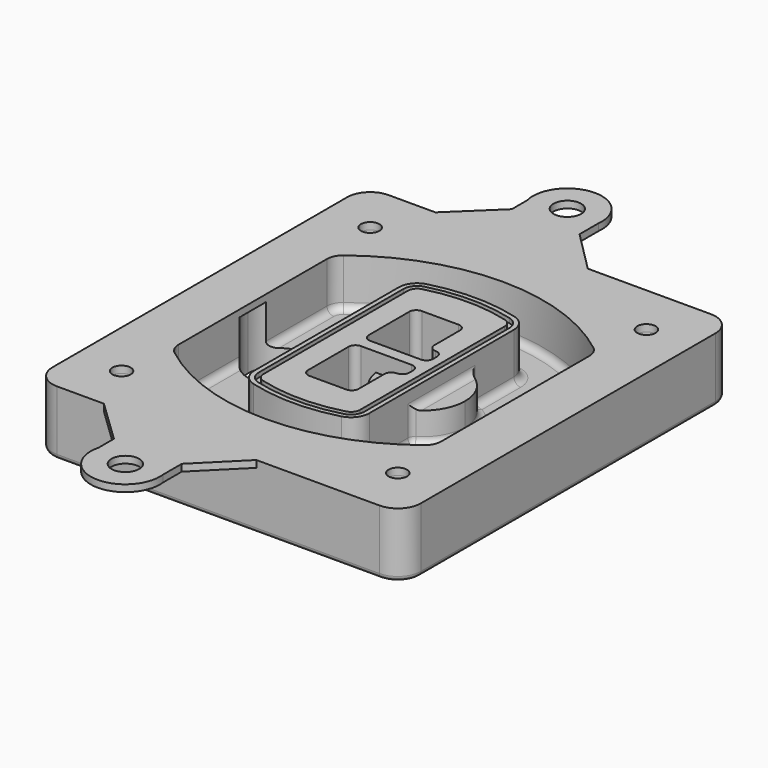
from build123d import *

# Parameters (mm, degrees)
F0_R      = 4
F1_DEPTH  = 25
F2_DEPTH  = 3
F3_DEPTH  = 18
F5_DEPTH  = 21
F6_DEPTH  = 2
F8_DEPTH  = 20
F9_DEPTH  = 16
F10_DEPTH = 25
F7_R      = 6
F7_R_2    = 4
F11_DEPTH = 6
F13_DEPTH = 9
F14_R     = 3
F15_R     = 2
F16_R     = 6
F16_R_2   = 4
F17_DEPTH = 3


with BuildPart() as f1:
    # F0 (on Top) → F1 (new body)
    with BuildSketch(Plane.XY):
        with BuildLine():
            ThreePointArc((14.05, 38.3825811321), (16.9789321881, 31.3115133202), (24.05, 28.3825811321))
            Line((24.05, 28.3825811321), (164.05, 28.3825811321))
            ThreePointArc((164.05, 28.3825811321), (171.1210678119, 31.3115133202), (174.05, 38.3825811321))
            Line((174.05, 38.3825811321), (174.05, 198.3825811321))
            ThreePointArc((174.05, 198.3825811321), (171.1210678119, 205.4536489439), (164.05, 208.3825811321))
            Line((164.05, 208.3825811321), (24.05, 208.3825811321))
            ThreePointArc((24.05, 208.3825811321), (16.9789321881, 205.4536489439), (14.05, 198.3825811321))
            Line((14.05, 198.3825811321), (14.05, 38.3825811321))
        make_face()
        with Locations((34.05, 50.8825811321)):
            Circle(F0_R, mode=Mode.SUBTRACT)
        with Locations((154.05, 50.8825811321)):
            Circle(F0_R, mode=Mode.SUBTRACT)
        with BuildLine():
            ThreePointArc((30.05, 158.6760234193), (31.4679615202, 164.8154295545), (35.4346153846, 169.7112011673))
            ThreePointArc((35.4346153846, 169.7112011673), (94.05, 189.8825811321), (152.6653846154, 169.7112011673))
            ThreePointArc((152.6653846154, 169.7112011673), (156.6320384798, 164.8154295545), (158.05, 158.6760234193))
            Line((158.05, 158.6760234193), (158.05, 78.0891388448))
            ThreePointArc((158.05, 78.0891388448), (156.6320384798, 71.9497327097), (152.6653846154, 67.0539610969))
            ThreePointArc((152.6653846154, 67.0539610969), (94.05, 46.8825811321), (35.4346153846, 67.0539610969))
            ThreePointArc((35.4346153846, 67.0539610969), (31.4679615202, 71.9497327097), (30.05, 78.0891388448))
            Line((30.05, 78.0891388448), (30.05, 158.6760234193))
        make_face(mode=Mode.SUBTRACT)
        with Locations((34.05, 185.8825811321)):
            Circle(F0_R, mode=Mode.SUBTRACT)
        with Locations((154.05, 185.8825811321)):
            Circle(F0_R, mode=Mode.SUBTRACT)
        with BuildLine():
            ThreePointArc((152.6653846154, 169.7112011673), (94.05, 189.8825811321), (35.4346153846, 169.7112011673))
            ThreePointArc((35.4346153846, 169.7112011673), (31.4679615202, 164.8154295545), (30.05, 158.6760234193))
            Line((30.05, 158.6760234193), (30.05, 78.0891388448))
            ThreePointArc((30.05, 78.0891388448), (31.4679615202, 71.9497327097), (35.4346153846, 67.0539610969))
            ThreePointArc((35.4346153846, 67.0539610969), (94.05, 46.8825811321), (152.6653846154, 67.0539610969))
            ThreePointArc((152.6653846154, 67.0539610969), (156.6320384798, 71.9497327097), (158.05, 78.0891388448))
            Line((158.05, 78.0891388448), (158.05, 158.6760234193))
            ThreePointArc((158.05, 158.6760234193), (156.6320384798, 164.8154295545), (152.6653846154, 169.7112011673))
        make_face()
        with BuildLine():
            Line((34.05, 78.0891388448), (34.05, 158.6760234193))
            ThreePointArc((34.05, 158.6760234193), (35.0628296573, 163.0613135158), (37.8961538462, 166.5582932393))
            ThreePointArc((37.8961538462, 166.5582932393), (94.05, 185.8825811321), (150.2038461538, 166.5582932393))
            ThreePointArc((150.2038461538, 166.5582932393), (153.0371703427, 163.0613135158), (154.05, 158.6760234193))
            Line((154.05, 158.6760234193), (154.05, 78.0891388448))
            ThreePointArc((154.05, 78.0891388448), (153.0371703427, 73.7038487483), (150.2038461538, 70.2068690248))
            ThreePointArc((150.2038461538, 70.2068690248), (94.05, 50.8825811321), (37.8961538462, 70.2068690248))
            ThreePointArc((37.8961538462, 70.2068690248), (35.0628296573, 73.7038487483), (34.05, 78.0891388448))
        make_face(mode=Mode.SUBTRACT)
        with BuildLine():
            ThreePointArc((37.8961538462, 166.5582932393), (35.0628296573, 163.0613135158), (34.05, 158.6760234193))
            Line((34.05, 158.6760234193), (34.05, 78.0891388448))
            ThreePointArc((34.05, 78.0891388448), (35.0628296573, 73.7038487483), (37.8961538462, 70.2068690248))
            ThreePointArc((37.8961538462, 70.2068690248), (94.05, 50.8825811321), (150.2038461538, 70.2068690248))
            ThreePointArc((150.2038461538, 70.2068690248), (153.0371703427, 73.7038487483), (154.05, 78.0891388448))
            Line((154.05, 78.0891388448), (154.05, 158.6760234193))
            ThreePointArc((154.05, 158.6760234193), (153.0371703427, 163.0613135158), (150.2038461538, 166.5582932393))
            ThreePointArc((150.2038461538, 166.5582932393), (94.05, 185.8825811321), (37.8961538462, 166.5582932393))
        make_face()
        with BuildLine():
            ThreePointArc((148.3576923077, 164.1936122933), (150.3410192399, 161.7457264869), (151.05, 158.6760234193))
            Line((151.05, 158.6760234193), (151.05, 78.0891388448))
            ThreePointArc((151.05, 78.0891388448), (150.3410192399, 75.0194357772), (148.3576923077, 72.5715499708))
            ThreePointArc((148.3576923077, 72.5715499708), (94.05, 53.8825811321), (39.7423076923, 72.5715499708))
            ThreePointArc((39.7423076923, 72.5715499708), (37.7589807601, 75.0194357772), (37.05, 78.0891388448))
            Line((37.05, 78.0891388448), (37.05, 158.6760234193))
            ThreePointArc((37.05, 158.6760234193), (37.7589807601, 161.7457264869), (39.7423076923, 164.1936122933))
            ThreePointArc((39.7423076923, 164.1936122933), (94.05, 182.8825811321), (148.3576923077, 164.1936122933))
        make_face(mode=Mode.SUBTRACT)
        with BuildLine():
            Line((151.05, 78.0891388448), (151.05, 158.6760234193))
            ThreePointArc((151.05, 158.6760234193), (150.3410192399, 161.7457264869), (148.3576923077, 164.1936122933))
            ThreePointArc((148.3576923077, 164.1936122933), (94.05, 182.8825811321), (39.7423076923, 164.1936122933))
            ThreePointArc((39.7423076923, 164.1936122933), (37.7589807601, 161.7457264869), (37.05, 158.6760234193))
            Line((37.05, 158.6760234193), (37.05, 78.0891388448))
            ThreePointArc((37.05, 78.0891388448), (37.7589807601, 75.0194357772), (39.7423076923, 72.5715499708))
            ThreePointArc((39.7423076923, 72.5715499708), (94.05, 53.8825811321), (148.3576923077, 72.5715499708))
            ThreePointArc((148.3576923077, 72.5715499708), (150.3410192399, 75.0194357772), (151.05, 78.0891388448))
        make_face()
    extrude(amount=-F1_DEPTH)

    # F0 (on Top) → F2 (join)
    with BuildSketch(Plane.XY):
        with BuildLine():
            ThreePointArc((37.8961538462, 166.5582932393), (35.0628296573, 163.0613135158), (34.05, 158.6760234193))
            Line((34.05, 158.6760234193), (34.05, 78.0891388448))
            ThreePointArc((34.05, 78.0891388448), (35.0628296573, 73.7038487483), (37.8961538462, 70.2068690248))
            ThreePointArc((37.8961538462, 70.2068690248), (94.05, 50.8825811321), (150.2038461538, 70.2068690248))
            ThreePointArc((150.2038461538, 70.2068690248), (153.0371703427, 73.7038487483), (154.05, 78.0891388448))
            Line((154.05, 78.0891388448), (154.05, 158.6760234193))
            ThreePointArc((154.05, 158.6760234193), (153.0371703427, 163.0613135158), (150.2038461538, 166.5582932393))
            ThreePointArc((150.2038461538, 166.5582932393), (94.05, 185.8825811321), (37.8961538462, 166.5582932393))
        make_face()
        with BuildLine():
            ThreePointArc((148.3576923077, 164.1936122933), (150.3410192399, 161.7457264869), (151.05, 158.6760234193))
            Line((151.05, 158.6760234193), (151.05, 78.0891388448))
            ThreePointArc((151.05, 78.0891388448), (150.3410192399, 75.0194357772), (148.3576923077, 72.5715499708))
            ThreePointArc((148.3576923077, 72.5715499708), (94.05, 53.8825811321), (39.7423076923, 72.5715499708))
            ThreePointArc((39.7423076923, 72.5715499708), (37.7589807601, 75.0194357772), (37.05, 78.0891388448))
            Line((37.05, 78.0891388448), (37.05, 158.6760234193))
            ThreePointArc((37.05, 158.6760234193), (37.7589807601, 161.7457264869), (39.7423076923, 164.1936122933))
            ThreePointArc((39.7423076923, 164.1936122933), (94.05, 182.8825811321), (148.3576923077, 164.1936122933))
        make_face(mode=Mode.SUBTRACT)
    extrude(amount=F2_DEPTH)

    # F0 (on Top) → F3 (cut)
    with BuildSketch(Plane.XY):
        with BuildLine():
            Line((151.05, 78.0891388448), (151.05, 158.6760234193))
            ThreePointArc((151.05, 158.6760234193), (150.3410192399, 161.7457264869), (148.3576923077, 164.1936122933))
            ThreePointArc((148.3576923077, 164.1936122933), (94.05, 182.8825811321), (39.7423076923, 164.1936122933))
            ThreePointArc((39.7423076923, 164.1936122933), (37.7589807601, 161.7457264869), (37.05, 158.6760234193))
            Line((37.05, 158.6760234193), (37.05, 78.0891388448))
            ThreePointArc((37.05, 78.0891388448), (37.7589807601, 75.0194357772), (39.7423076923, 72.5715499708))
            ThreePointArc((39.7423076923, 72.5715499708), (94.05, 53.8825811321), (148.3576923077, 72.5715499708))
            ThreePointArc((148.3576923077, 72.5715499708), (150.3410192399, 75.0194357772), (151.05, 78.0891388448))
        make_face()
    extrude(amount=-F3_DEPTH, mode=Mode.SUBTRACT)

    # F4 (on face) → F5 (join, through all)
    with BuildSketch(Plane.XY.offset(3)):
        with BuildLine():
            ThreePointArc((69.05, 79.13605345), (70.6988454002, 74.2716074128), (74.9657088123, 71.4123412437))
            ThreePointArc((74.9657088123, 71.4123412437), (94.05, 68.8825811321), (113.1342911877, 71.4123412437))
            ThreePointArc((113.1342911877, 71.4123412437), (117.4011545998, 74.2716074128), (119.05, 79.13605345))
            Line((119.05, 79.13605345), (119.05, 157.6291088141))
            ThreePointArc((119.05, 157.6291088141), (117.4011545998, 162.4935548514), (113.1342911877, 165.3528210204))
            ThreePointArc((113.1342911877, 165.3528210204), (94.05, 167.8825811321), (74.9657088123, 165.3528210204))
            ThreePointArc((74.9657088123, 165.3528210204), (70.6988454002, 162.4935548514), (69.05, 157.6291088141))
            Line((69.05, 157.6291088141), (69.05, 79.13605345))
        make_face()
        with BuildLine():
            ThreePointArc((112.6132183908, 163.4218929688), (115.8133659499, 161.2774433421), (117.05, 157.6291088141))
            Line((117.05, 157.6291088141), (117.05, 79.13605345))
            ThreePointArc((117.05, 79.13605345), (115.8133659499, 75.4877189221), (112.6132183908, 73.3432692953))
            ThreePointArc((112.6132183908, 73.3432692953), (94.05, 70.8825811321), (75.4867816092, 73.3432692953))
            ThreePointArc((75.4867816092, 73.3432692953), (72.2866340501, 75.4877189221), (71.05, 79.13605345))
            Line((71.05, 79.13605345), (71.05, 157.6291088141))
            ThreePointArc((71.05, 157.6291088141), (72.2866340501, 161.2774433421), (75.4867816092, 163.4218929688))
            ThreePointArc((75.4867816092, 163.4218929688), (94.05, 165.8825811321), (112.6132183908, 163.4218929688))
        make_face(mode=Mode.SUBTRACT)
        with BuildLine():
            Line((117.05, 79.13605345), (117.05, 157.6291088141))
            ThreePointArc((117.05, 157.6291088141), (115.8133659499, 161.2774433421), (112.6132183908, 163.4218929688))
            ThreePointArc((112.6132183908, 163.4218929688), (94.05, 165.8825811321), (75.4867816092, 163.4218929688))
            ThreePointArc((75.4867816092, 163.4218929688), (72.2866340501, 161.2774433421), (71.05, 157.6291088141))
            Line((71.05, 157.6291088141), (71.05, 79.13605345))
            ThreePointArc((71.05, 79.13605345), (72.2866340501, 75.4877189221), (75.4867816092, 73.3432692953))
            ThreePointArc((75.4867816092, 73.3432692953), (94.05, 70.8825811321), (112.6132183908, 73.3432692953))
            ThreePointArc((112.6132183908, 73.3432692953), (115.8133659499, 75.4877189221), (117.05, 79.13605345))
        make_face()
        with BuildLine():
            ThreePointArc((112.0921455939, 161.4909649173), (114.2255772999, 160.0613318328), (115.05, 157.6291088141))
            Line((115.05, 157.6291088141), (115.05, 79.13605345))
            ThreePointArc((115.05, 79.13605345), (114.2255772999, 76.7038304314), (112.0921455939, 75.2741973469))
            ThreePointArc((112.0921455939, 75.2741973469), (94.05, 72.8825811321), (76.0078544061, 75.2741973469))
            ThreePointArc((76.0078544061, 75.2741973469), (73.8744227001, 76.7038304314), (73.05, 79.13605345))
            Line((73.05, 79.13605345), (73.05, 157.6291088141))
            ThreePointArc((73.05, 157.6291088141), (73.8744227001, 160.0613318328), (76.0078544061, 161.4909649173))
            ThreePointArc((76.0078544061, 161.4909649173), (94.05, 163.8825811321), (112.0921455939, 161.4909649173))
        make_face(mode=Mode.SUBTRACT)
        with BuildLine():
            Line((115.05, 79.13605345), (115.05, 157.6291088141))
            ThreePointArc((115.05, 157.6291088141), (114.2255772999, 160.0613318328), (112.0921455939, 161.4909649173))
            ThreePointArc((112.0921455939, 161.4909649173), (94.05, 163.8825811321), (76.0078544061, 161.4909649173))
            ThreePointArc((76.0078544061, 161.4909649173), (73.8744227001, 160.0613318328), (73.05, 157.6291088141))
            Line((73.05, 157.6291088141), (73.05, 79.13605345))
            ThreePointArc((73.05, 79.13605345), (73.8744227001, 76.7038304314), (76.0078544061, 75.2741973469))
            ThreePointArc((76.0078544061, 75.2741973469), (94.05, 72.8825811321), (112.0921455939, 75.2741973469))
            ThreePointArc((112.0921455939, 75.2741973469), (114.2255772999, 76.7038304314), (115.05, 79.13605345))
        make_face()
        with BuildLine():
            Line((86.05, 115.8825811321), (108.05, 115.8825811321))
            ThreePointArc((108.05, 115.8825811321), (110.1713203436, 115.0039014756), (111.05, 112.8825811321))
            Line((111.05, 112.8825811321), (111.05, 110.8825811321))
            ThreePointArc((111.05, 110.8825811321), (110.1713203436, 108.7612607885), (108.05, 107.8825811321))
            ThreePointArc((108.05, 107.8825811321), (105.9286796564, 107.0039014756), (105.05, 104.8825811321))
            Line((105.05, 104.8825811321), (105.05, 90.8825811321))
            ThreePointArc((105.05, 90.8825811321), (104.1713203436, 88.7612607885), (102.05, 87.8825811321))
            Line((102.05, 87.8825811321), (86.05, 87.8825811321))
            ThreePointArc((86.05, 87.8825811321), (83.9286796564, 88.7612607885), (83.05, 90.8825811321))
            Line((83.05, 90.8825811321), (83.05, 112.8825811321))
            ThreePointArc((83.05, 112.8825811321), (83.9286796564, 115.0039014756), (86.05, 115.8825811321))
        make_face(mode=Mode.SUBTRACT)
        with BuildLine():
            ThreePointArc((86.05, 120.8825811321), (83.9286796564, 121.7612607885), (83.05, 123.8825811321))
            Line((83.05, 123.8825811321), (83.05, 145.8825811321))
            ThreePointArc((83.05, 145.8825811321), (83.9286796564, 148.0039014756), (86.05, 148.8825811321))
            Line((86.05, 148.8825811321), (102.05, 148.8825811321))
            ThreePointArc((102.05, 148.8825811321), (104.1713203436, 148.0039014756), (105.05, 145.8825811321))
            Line((105.05, 145.8825811321), (105.05, 131.8825811321))
            ThreePointArc((105.05, 131.8825811321), (105.9286796564, 129.7612607885), (108.05, 128.8825811321))
            ThreePointArc((108.05, 128.8825811321), (110.1713203436, 128.0039014756), (111.05, 125.8825811321))
            Line((111.05, 125.8825811321), (111.05, 123.8825811321))
            ThreePointArc((111.05, 123.8825811321), (110.1713203436, 121.7612607885), (108.05, 120.8825811321))
            Line((108.05, 120.8825811321), (86.05, 120.8825811321))
        make_face(mode=Mode.SUBTRACT)
    extrude(amount=-F5_DEPTH)

    # F4 (on face) → F6 (cut)
    with BuildSketch(Plane.XY.offset(3)):
        with BuildLine():
            Line((117.05, 79.13605345), (117.05, 157.6291088141))
            ThreePointArc((117.05, 157.6291088141), (115.8133659499, 161.2774433421), (112.6132183908, 163.4218929688))
            ThreePointArc((112.6132183908, 163.4218929688), (94.05, 165.8825811321), (75.4867816092, 163.4218929688))
            ThreePointArc((75.4867816092, 163.4218929688), (72.2866340501, 161.2774433421), (71.05, 157.6291088141))
            Line((71.05, 157.6291088141), (71.05, 79.13605345))
            ThreePointArc((71.05, 79.13605345), (72.2866340501, 75.4877189221), (75.4867816092, 73.3432692953))
            ThreePointArc((75.4867816092, 73.3432692953), (94.05, 70.8825811321), (112.6132183908, 73.3432692953))
            ThreePointArc((112.6132183908, 73.3432692953), (115.8133659499, 75.4877189221), (117.05, 79.13605345))
        make_face()
        with BuildLine():
            ThreePointArc((112.0921455939, 161.4909649173), (114.2255772999, 160.0613318328), (115.05, 157.6291088141))
            Line((115.05, 157.6291088141), (115.05, 79.13605345))
            ThreePointArc((115.05, 79.13605345), (114.2255772999, 76.7038304314), (112.0921455939, 75.2741973469))
            ThreePointArc((112.0921455939, 75.2741973469), (94.05, 72.8825811321), (76.0078544061, 75.2741973469))
            ThreePointArc((76.0078544061, 75.2741973469), (73.8744227001, 76.7038304314), (73.05, 79.13605345))
            Line((73.05, 79.13605345), (73.05, 157.6291088141))
            ThreePointArc((73.05, 157.6291088141), (73.8744227001, 160.0613318328), (76.0078544061, 161.4909649173))
            ThreePointArc((76.0078544061, 161.4909649173), (94.05, 163.8825811321), (112.0921455939, 161.4909649173))
        make_face(mode=Mode.SUBTRACT)
    extrude(amount=-F6_DEPTH, mode=Mode.SUBTRACT)

    # F7 (on face) → F8 (join)
    with BuildSketch(Plane(origin=(0, 0, -25), x_dir=(1, 0, 0), z_dir=(0, 0, -1))):
        with BuildLine():
            ThreePointArc((97.33842436, -118.3825811321), (110.8067035675, -104.9143019245), (124.274982775, -118.3825811321))
            Line((124.274982775, -118.3825811321), (129.274982775, -118.3825811321))
            ThreePointArc((129.274982775, -118.3825811321), (110.8067035675, -99.9143019245), (92.33842436, -118.3825811321))
            Line((92.33842436, -118.3825811321), (97.33842436, -118.3825811321))
        make_face()
        with BuildLine():
            Line((97.33842436, -118.3825811321), (124.274982775, -118.3825811321))
            ThreePointArc((124.274982775, -118.3825811321), (110.8067035675, -104.9143019245), (97.33842436, -118.3825811321))
        make_face()
        with BuildLine():
            ThreePointArc((97.33842436, -118.3825811321), (110.8067035675, -131.8508603396), (124.274982775, -118.3825811321))
            Line((124.274982775, -118.3825811321), (97.33842436, -118.3825811321))
        make_face()
        with BuildLine():
            Line((129.274982775, -118.3825811321), (124.274982775, -118.3825811321))
            ThreePointArc((124.274982775, -118.3825811321), (110.8067035675, -131.8508603396), (97.33842436, -118.3825811321))
            Line((97.33842436, -118.3825811321), (92.33842436, -118.3825811321))
            ThreePointArc((92.33842436, -118.3825811321), (110.8067035675, -136.8508603396), (129.274982775, -118.3825811321))
        make_face()
    extrude(amount=-F8_DEPTH)

    # F7 (on face) → F9 (cut)
    with BuildSketch(Plane(origin=(0, 0, -25), x_dir=(1, 0, 0), z_dir=(0, 0, -1))):
        with BuildLine():
            Line((97.33842436, -118.3825811321), (124.274982775, -118.3825811321))
            ThreePointArc((124.274982775, -118.3825811321), (110.8067035675, -104.9143019245), (97.33842436, -118.3825811321))
        make_face()
        with BuildLine():
            ThreePointArc((97.33842436, -118.3825811321), (110.8067035675, -131.8508603396), (124.274982775, -118.3825811321))
            Line((124.274982775, -118.3825811321), (97.33842436, -118.3825811321))
        make_face()
    extrude(amount=-F9_DEPTH, mode=Mode.SUBTRACT)

    # F7 (on face) → F10 (cut)
    with BuildSketch(Plane(origin=(0, 0, -25), x_dir=(1, 0, 0), z_dir=(0, 0, -1))):
        with BuildLine():
            Line((35.0181770675, -118.3825811321), (61.9547354825, -118.3825811321))
            ThreePointArc((61.9547354825, -118.3825811321), (48.486456275, -104.9143019245), (35.0181770675, -118.3825811321))
        make_face()
        with BuildLine():
            ThreePointArc((35.0181770675, -118.3825811321), (48.486456275, -131.8508603396), (61.9547354825, -118.3825811321))
            Line((61.9547354825, -118.3825811321), (35.0181770675, -118.3825811321))
        make_face()
    extrude(amount=-F10_DEPTH, mode=Mode.SUBTRACT)

    # F7 (on face) → F11 (cut)
    with BuildSketch(Plane(origin=(0, 0, -25), x_dir=(1, 0, 0), z_dir=(0, 0, -1))):
        with Locations((154.05, -185.8825811321)):
            Circle(F7_R)
        with Locations((154.05, -185.8825811321)):
            Circle(F7_R_2, mode=Mode.SUBTRACT)
        with Locations((154.05, -185.8825811321)):
            Circle(F7_R)
        with Locations((154.05, -185.8825811321)):
            Circle(F7_R_2, mode=Mode.SUBTRACT)
        with Locations((34.05, -185.8825811321)):
            Circle(F7_R)
        with Locations((34.05, -185.8825811321)):
            Circle(F7_R_2, mode=Mode.SUBTRACT)
        with Locations((34.05, -185.8825811321)):
            Circle(F7_R)
        with Locations((34.05, -185.8825811321)):
            Circle(F7_R_2, mode=Mode.SUBTRACT)
        with Locations((34.05, -50.8825811321)):
            Circle(F7_R)
        with Locations((34.05, -50.8825811321)):
            Circle(F7_R_2, mode=Mode.SUBTRACT)
        with Locations((34.05, -50.8825811321)):
            Circle(F7_R)
        with Locations((34.05, -50.8825811321)):
            Circle(F7_R_2, mode=Mode.SUBTRACT)
        with Locations((154.05, -50.8825811321)):
            Circle(F7_R)
        with Locations((154.05, -50.8825811321)):
            Circle(F7_R_2, mode=Mode.SUBTRACT)
        with Locations((154.05, -50.8825811321)):
            Circle(F7_R)
        with Locations((154.05, -50.8825811321)):
            Circle(F7_R_2, mode=Mode.SUBTRACT)
    extrude(amount=-F11_DEPTH, mode=Mode.SUBTRACT)

    # F12 (on face) → F13 (cut, through all)
    with BuildSketch(Plane(origin=(0, 0, -9), x_dir=(1, 0, 0), z_dir=(0, 0, -1))):
        with BuildLine():
            Line((105.05, -104.8825811321), (105.05, -100.8344273567))
            ThreePointArc((105.05, -100.8344273567), (96.6196536419, -106.5586667507), (92.5084157545, -115.8825811321))
            Line((92.5084157545, -115.8825811321), (97.5724848595, -115.8825811321))
            ThreePointArc((97.5724848595, -115.8825811321), (100.2357188154, -110.0369939039), (105.3036447004, -106.0898642673))
            ThreePointArc((105.3036447004, -106.0898642673), (105.1140958889, -105.4994012441), (105.05, -104.8825811321))
        make_face()
        with BuildLine():
            ThreePointArc((105.3036447004, -130.6752979968), (100.2357188154, -126.7281683602), (97.5724848595, -120.8825811321))
            Line((97.5724848595, -120.8825811321), (92.5084157545, -120.8825811321))
            ThreePointArc((92.5084157545, -120.8825811321), (96.6196536419, -130.2064955134), (105.05, -135.9307349074))
            Line((105.05, -135.9307349074), (105.05, -131.8825811321))
            ThreePointArc((105.05, -131.8825811321), (105.1140958889, -131.26576102), (105.3036447004, -130.6752979968))
        make_face()
        with BuildLine():
            ThreePointArc((105.3036447004, -106.0898642673), (100.2357188154, -110.0369939039), (97.5724848595, -115.8825811321))
            Line((97.5724848595, -115.8825811321), (108.05, -115.8825811321))
            ThreePointArc((108.05, -115.8825811321), (110.1713203436, -115.0039014756), (111.05, -112.8825811321))
            Line((111.05, -112.8825811321), (111.05, -110.8825811321))
            ThreePointArc((111.05, -110.8825811321), (110.1713203436, -108.7612607885), (108.05, -107.8825811321))
            ThreePointArc((108.05, -107.8825811321), (106.4101599782, -107.3947365219), (105.3036447004, -106.0898642673))
        make_face()
        with BuildLine():
            Line((108.05, -120.8825811321), (97.5724848595, -120.8825811321))
            ThreePointArc((97.5724848595, -120.8825811321), (100.2357188154, -126.7281683602), (105.3036447004, -130.6752979968))
            ThreePointArc((105.3036447004, -130.6752979968), (106.4101599782, -129.3704257422), (108.05, -128.8825811321))
            ThreePointArc((108.05, -128.8825811321), (110.1713203436, -128.0039014756), (111.05, -125.8825811321))
            Line((111.05, -125.8825811321), (111.05, -123.8825811321))
            ThreePointArc((111.05, -123.8825811321), (110.1713203436, -121.7612607885), (108.05, -120.8825811321))
        make_face()
    extrude(amount=F13_DEPTH, mode=Mode.SUBTRACT)

    # F14
    f14_edges = [f1.edges().sort_by_distance(p)[0] for p in [
        (37.05, 94.679105, -18),
        (37.05, 142.086057, -18),
        (119.05, 118.382581, -5),
        (119.05, 134.909087, -11.5),
        (119.05, 101.856075, -11.5),
        (119.05, 90.496064, -18),
        (129.274983, 118.382581, -18),
    ]]
    fillet(f14_edges, radius=F14_R)

    # F15
    f15_edges = [f1.edges().sort_by_distance(p)[0] for p in [
        (94.05, 28.382581, -25),
    ]]
    fillet(f15_edges, radius=F15_R)

    # F16 (on face) → F17 (join, through all)
    with BuildSketch(Plane.XY):
        with BuildLine():
            Line((110.5829976191, 28.3825811321), (44.387947768, 28.3825811321))
            Line((44.387947768, 28.3825811321), (63.1496108073, 10.3825811321))
            Line((63.1496108073, 10.3825811321), (63.1496108073, 2.0792737299))
            ThreePointArc((63.1496108073, 2.0792737299), (76.7035953968, -16.585150759), (92.5829976191, 0.145534368))
            Line((92.5829976191, 0.145534368), (92.5829976191, 10.3825811321))
            Line((92.5829976191, 10.3825811321), (110.5829976191, 28.3825811321))
        make_face()
        with Locations((77.686958015, -1.6174188679)):
            Circle(F16_R, mode=Mode.SUBTRACT)
        with BuildLine():
            Line((63.1496108073, 226.3825811321), (44.387947768, 208.3825811321))
            Line((44.387947768, 208.3825811321), (110.5829976191, 208.3825811321))
            Line((110.5829976191, 208.3825811321), (92.5829976191, 226.3825811321))
            Line((92.5829976191, 226.3825811321), (92.5829976191, 236.6196278962))
            ThreePointArc((92.5829976191, 236.6196278962), (76.7035953968, 253.3503130231), (63.1496108073, 234.6858885342))
            Line((63.1496108073, 234.6858885342), (63.1496108073, 226.3825811321))
        make_face()
        with Locations((77.686958015, 238.3825811321)):
            Circle(F16_R, mode=Mode.SUBTRACT)
        with BuildLine():
            Line((110.5829976191, 208.3825811321), (44.387947768, 208.3825811321))
            Line((44.387947768, 208.3825811321), (24.05, 208.3825811321))
            ThreePointArc((24.05, 208.3825811321), (16.9789321881, 205.4536489439), (14.05, 198.3825811321))
            Line((14.05, 198.3825811321), (14.05, 38.3825811321))
            ThreePointArc((14.05, 38.3825811321), (16.9789321881, 31.3115133202), (24.05, 28.3825811321))
            Line((24.05, 28.3825811321), (44.387947768, 28.3825811321))
            Line((44.387947768, 28.3825811321), (110.5829976191, 28.3825811321))
            Line((110.5829976191, 28.3825811321), (164.05, 28.3825811321))
            ThreePointArc((164.05, 28.3825811321), (171.1210678119, 31.3115133202), (174.05, 38.3825811321))
            Line((174.05, 38.3825811321), (174.05, 198.3825811321))
            ThreePointArc((174.05, 198.3825811321), (171.1210678119, 205.4536489439), (164.05, 208.3825811321))
            Line((164.05, 208.3825811321), (110.5829976191, 208.3825811321))
        make_face()
        with Locations((34.05, 50.8825811321)):
            Circle(F16_R_2, mode=Mode.SUBTRACT)
        with BuildLine():
            ThreePointArc((34.05, 158.6760234193), (35.0628296573, 163.0613135158), (37.8961538462, 166.5582932393))
            ThreePointArc((37.8961538462, 166.5582932393), (94.05, 185.8825811321), (150.2038461538, 166.5582932393))
            ThreePointArc((150.2038461538, 166.5582932393), (153.0371703427, 163.0613135158), (154.05, 158.6760234193))
            Line((154.05, 158.6760234193), (154.05, 78.0891388448))
            ThreePointArc((154.05, 78.0891388448), (153.0371703427, 73.7038487483), (150.2038461538, 70.2068690248))
            ThreePointArc((150.2038461538, 70.2068690248), (94.05, 50.8825811321), (37.8961538462, 70.2068690248))
            ThreePointArc((37.8961538462, 70.2068690248), (35.0628296573, 73.7038487483), (34.05, 78.0891388448))
            Line((34.05, 78.0891388448), (34.05, 158.6760234193))
        make_face(mode=Mode.SUBTRACT)
        with Locations((154.05, 50.8825811321)):
            Circle(F16_R_2, mode=Mode.SUBTRACT)
        with Locations((34.05, 185.8825811321)):
            Circle(F16_R_2, mode=Mode.SUBTRACT)
        with Locations((154.05, 185.8825811321)):
            Circle(F16_R_2, mode=Mode.SUBTRACT)
    extrude(amount=F17_DEPTH)


solid = f1.part
